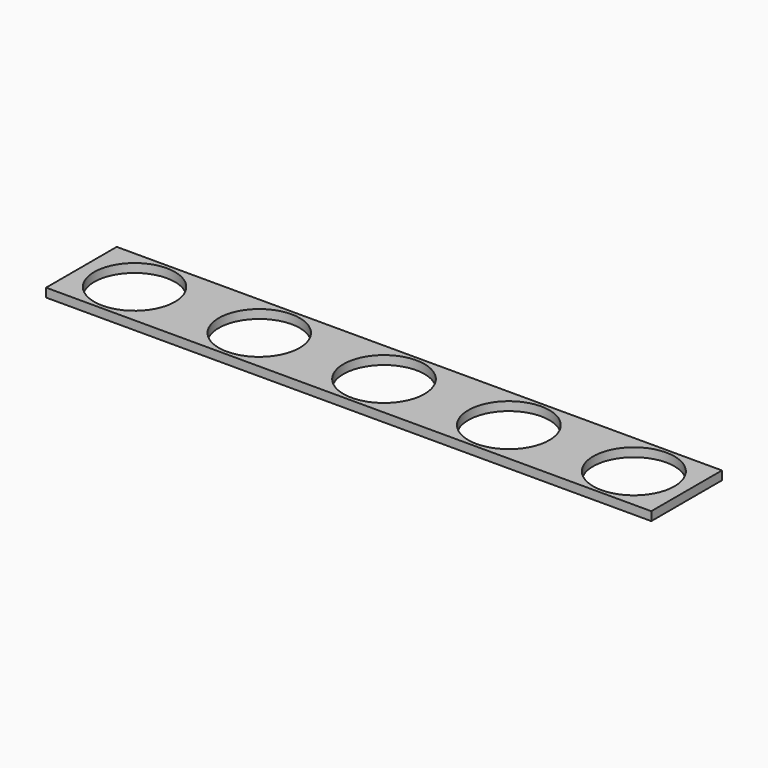
from build123d import *

# Parameters (mm, degrees)
F0_W     = 276.38796
F0_H     = 40.325638
F0_R     = 18.45
F0_R_2   = 18.475
F0_R_3   = 18.5
F0_R_4   = 18.525
F0_R_5   = 18.55
F1_DEPTH = 4


with BuildPart() as f1:
    # F0 (on Top) → F1 (new body)
    with BuildSketch(Plane.XY):
        Rectangle(F0_W, F0_H)
        with Locations((-113.9, 0)):
            Circle(F0_R, mode=Mode.SUBTRACT)
        with Locations((-56.975, 0)):
            Circle(F0_R_2, mode=Mode.SUBTRACT)
        Circle(F0_R_3, mode=Mode.SUBTRACT)
        with Locations((57.025, 0)):
            Circle(F0_R_4, mode=Mode.SUBTRACT)
        with Locations((114.1, 0)):
            Circle(F0_R_5, mode=Mode.SUBTRACT)
    extrude(amount=F1_DEPTH)


solid = f1.part
